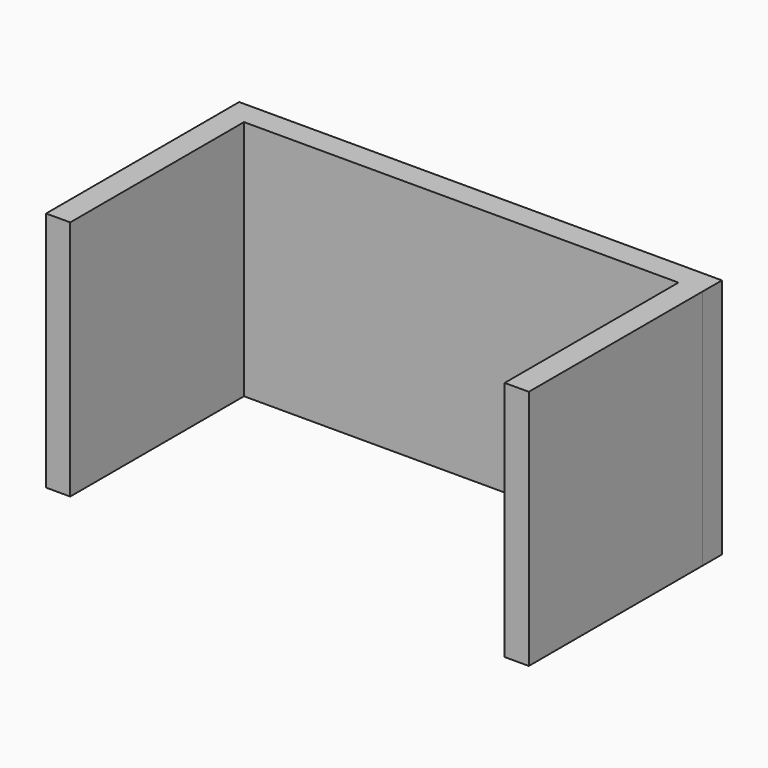
from build123d import *

# Parameters (mm, degrees)
F0_W     = 254
F0_H     = 12.7
F1_DEPTH = 127
F2_W     = 12.7
F2_H     = 114.3
F3_DEPTH = 127
F4_W     = 12.7
F4_H     = 114.3
F5_DEPTH = 127


with BuildPart() as f1:
    # F0 (on Top) → F1 (new body)
    with BuildSketch(Plane.XY):
        with Locations((-22.784118, 50.164945)):
            Rectangle(F0_W, F0_H)
    extrude(amount=F1_DEPTH)

    # F2 (on Top) → F3 (join)
    with BuildSketch(Plane.XY):
        with Locations((-143.434073, -13.334987)):
            Rectangle(F2_W, F2_H)
    extrude(amount=F3_DEPTH)

    # F4 (on Top) → F5 (join)
    with BuildSketch(Plane.XY):
        with Locations((97.865868, -13.334994)):
            Rectangle(F4_W, F4_H)
    extrude(amount=F5_DEPTH)


solid = f1.part
